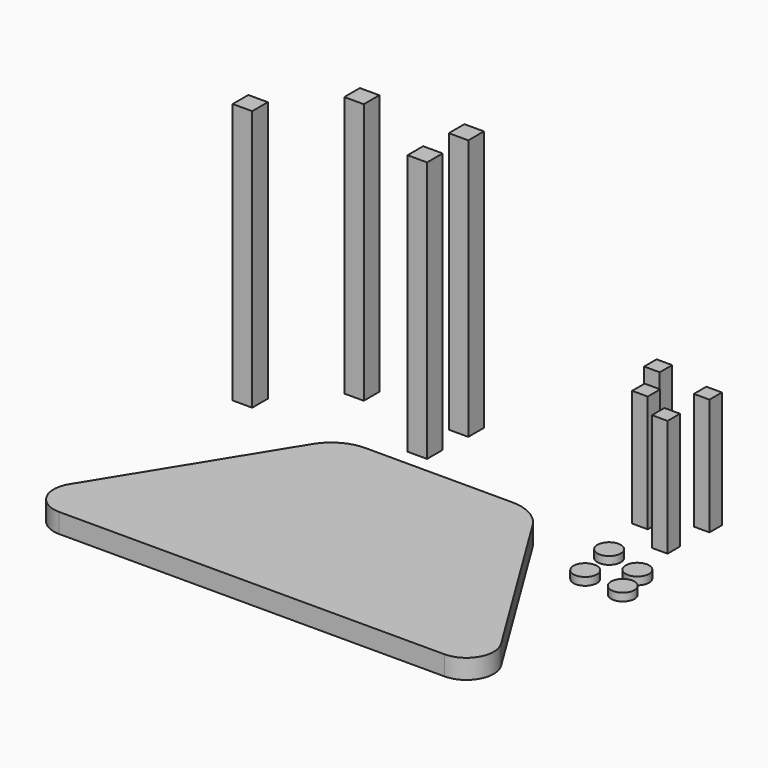
from build123d import *

# Parameters (mm, degrees)
F1_DEPTH = 6.35
F2_W     = 6.35
F2_H     = 6.35
F3_DEPTH = 85.09
F4_W     = 5.08
F4_H     = 5.08
F5_DEPTH = 38.1
F6_R     = 3.81
F7_DEPTH = 2.54


with BuildPart() as f1:
    # F0 (on Top) → F1 (new body)
    with BuildSketch(Plane.XY):
        with BuildLine():
            Line((23.952148, 38.1), (-23.952148, 38.1))
            ThreePointArc((-23.952148, 38.1), (-28.028467, 37.492055), (-31.75, 35.721134))
            Line((-31.75, 35.721134), (-31.75, -38.1))
            Line((-31.75, -38.1), (31.75, -38.1))
            Line((31.75, -38.1), (31.75, 35.721134))
            ThreePointArc((31.75, 35.721134), (28.028467, 37.492055), (23.952148, 38.1))
        make_face()
        with BuildLine():
            Line((-31.75, -38.1), (-31.75, 35.721134))
            ThreePointArc((-31.75, 35.721134), (-34.024133, 33.810703), (-35.843005, 31.462695))
            Line((-35.843005, 31.462695), (-70.380306, -24.543739))
            ThreePointArc((-70.380306, -24.543739), (-70.575972, -33.542958), (-62.813397, -38.1))
            Line((-62.813397, -38.1), (-31.75, -38.1))
        make_face()
        with BuildLine():
            ThreePointArc((35.843005, 31.462695), (34.024133, 33.810703), (31.75, 35.721134))
            Line((31.75, 35.721134), (31.75, -38.1))
            Line((31.75, -38.1), (62.813397, -38.1))
            ThreePointArc((62.813397, -38.1), (70.575972, -33.542958), (70.380306, -24.543739))
            Line((70.380306, -24.543739), (35.843005, 31.462695))
        make_face()
    extrude(amount=F1_DEPTH)


with BuildPart() as f3:
    # F2 (on Top) → F3 (new body)
    with BuildSketch(Plane.XY):
        with Locations((-51.351212, 70.868217)):
            Rectangle(F2_W, F2_H)
        with Locations((-18.139292, 71.945995)):
            Rectangle(F2_W, F2_H)
        with Locations((-18.744886, 55.897664)):
            Rectangle(F2_W, F2_H)
        with Locations((-71.129054, 50.14449)):
            Rectangle(F2_W, F2_H)
    extrude(amount=F3_DEPTH)


with BuildPart() as f5:
    # F4 (on Top) → F5 (new body)
    with BuildSketch(Plane.XY):
        with Locations((44.001669, 72.406939)):
            Rectangle(F4_W, F4_H)
        with Locations((63.311726, 68.540879)):
            Rectangle(F4_W, F4_H)
        with Locations((49.988925, 60.047593)):
            Rectangle(F4_W, F4_H)
        with Locations((62.31251, 52.720055)):
            Rectangle(F4_W, F4_H)
    extrude(amount=F5_DEPTH)


with BuildPart() as f7:
    # F6 (on Top) → F7 (new body)
    with BuildSketch(Plane.XY):
        with Locations((54.711472, 39.042778)):
            Circle(F6_R)
        with Locations((67.384511, 34.715317)):
            Circle(F6_R)
        with Locations((57.167284, 26.227161)):
            Circle(F6_R)
        with Locations((70.056707, 25.441222)):
            Circle(F6_R)
    extrude(amount=F7_DEPTH)


solid = Compound([f1.part, f3.part, f5.part, f7.part])
